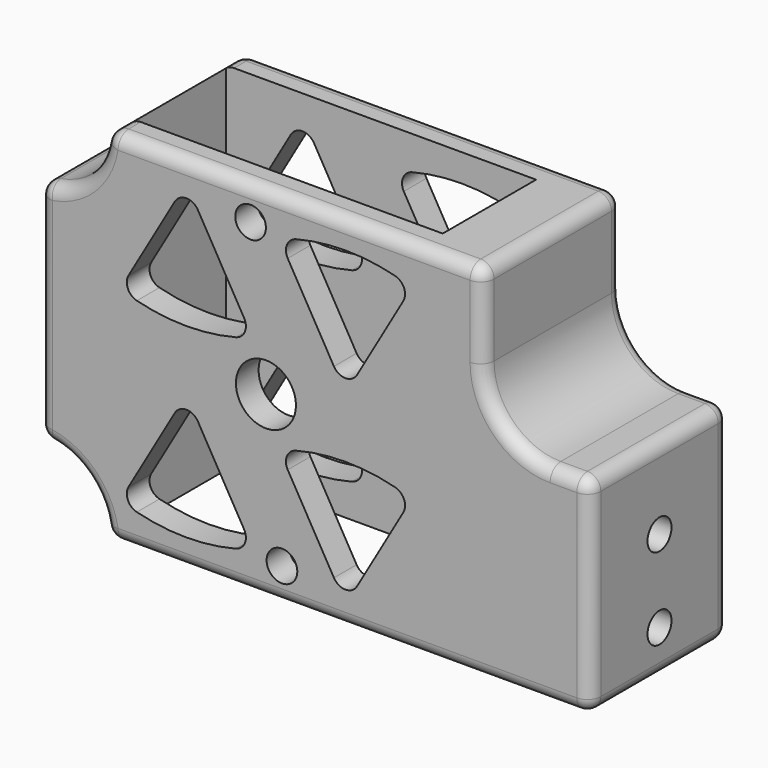
from build123d import *

# Parameters (mm, degrees)
F1_DEPTH  = 26
F2_W      = 46.52
F2_H      = 17.5
F3_DEPTH  = 53.901
F5_D      = 9
F5_DEPTH  = 12
F5_TIP    = 2.7038727856
F7_D      = 4.5
F7_DEPTH  = 30
F7_TIP    = 1.3519363928
F9_D      = 5
F9_DEPTH  = 12.5
F9_TIP    = 1.5021515476
F11_D     = 4.6
F11_DEPTH = 12.5
F11_TIP   = 1.3819794238
F13_DEPTH = 26.001
F14_R     = 2


with BuildPart() as f1:
    # F0 (on Front) → F1 (new body)
    with BuildSketch(Plane.XZ):
        with BuildLine():
            Line((23.3, 53.9), (-29.4678404338, 53.9))
            ThreePointArc((-29.4678404338, 53.9), (-30.7588348825, 53.4275252317), (-31.4398670282, 52.2333333333))
            ThreePointArc((-31.4398670282, 52.2333333333), (-34.2289321881, 46.8289321881), (-39.6333333333, 44.0398670282))
            ThreePointArc((-39.6333333333, 44.0398670282), (-40.8275252317, 43.3588348825), (-41.3, 42.0678404338))
            Line((-41.3, 42.0678404338), (-41.3, 11.8321595662))
            ThreePointArc((-41.3, 11.8321595662), (-40.8275252317, 10.5411651175), (-39.6333333333, 9.8601329718))
            ThreePointArc((-39.6333333333, 9.8601329718), (-34.2289321881, 7.0710678119), (-31.4398670282, 1.6666666667))
            ThreePointArc((-31.4398670282, 1.6666666667), (-30.7588348825, 0.4724747683), (-29.4678404338, 0))
            Line((-29.4678404338, 0), (39.3, 0))
            ThreePointArc((39.3, 0), (40.7142135624, 0.5857864376), (41.3, 2))
            Line((41.3, 2), (41.3, 29.08))
            ThreePointArc((41.3, 29.08), (40.7142135624, 30.4942135624), (39.3, 31.08))
            Line((39.3, 31.08), (35.3, 31.08))
            ThreePointArc((35.3, 31.08), (28.2289321881, 34.0089321881), (25.3, 41.08))
            Line((25.3, 41.08), (25.3, 51.9))
            ThreePointArc((25.3, 51.9), (24.7142135624, 53.3142135624), (23.3, 53.9))
        make_face()
    extrude(amount=-F1_DEPTH)

    # F2 (on face) → F3 (cut, through all)
    with BuildSketch(Plane.XY.offset(53.9)):
        with Locations((-7.46, 13)):
            Rectangle(F2_W, F2_H)
    extrude(amount=-F3_DEPTH, mode=Mode.SUBTRACT)

    # F5
    with Locations(Plane.XZ):
        with Locations((-7.3, 26.9)):
            Hole(F5_D / 2, depth=F5_DEPTH)
            with Locations((0, 0, -(F5_DEPTH + F5_TIP / 2))):  # 118° drill point
                Cone(0, F5_D / 2, F5_TIP, mode=Mode.SUBTRACT)

    # F7
    with Locations(Plane.YZ.offset(41.3)):
        with Locations((13, 18.95), (13, 6.65)):
            Hole(F7_D / 2, depth=F7_DEPTH)
            with Locations((0, 0, -(F7_DEPTH + F7_TIP / 2))):  # 118° drill point
                Cone(0, F7_D / 2, F7_TIP, mode=Mode.SUBTRACT)

    # F9
    with Locations(Plane(origin=(0, 0, 0), x_dir=(1, 0, 0), z_dir=(0, 0, -1))):
        with Locations((36, -13), (21, -13)):
            Hole(F9_D / 2, depth=F9_DEPTH)
            with Locations((0, 0, -(F9_DEPTH + F9_TIP / 2))):  # 118° drill point
                Cone(0, F9_D / 2, F9_TIP, mode=Mode.SUBTRACT)

    # F11
    with Locations(Plane.XZ):
        with Locations((-9.6, 48.8744156136), (-4.9, 5.0255843864)):
            Hole(F11_D / 2, depth=F11_DEPTH)
            with Locations((0, 0, -(F11_DEPTH + F11_TIP / 2))):  # 118° drill point
                Cone(0, F11_D / 2, F11_TIP, mode=Mode.SUBTRACT)

    # F12 (on face) → F13 (cut, through all)
    with BuildSketch(Plane.XZ):
        with BuildLine():
            Line((-10.5679491924, 35.9), (-17.4961524227, 47.9))
            ThreePointArc((-17.4961524227, 47.9), (-19.2282032303, 48.9), (-20.9602540378, 47.9))
            Line((-20.9602540378, 47.9), (-27.8884572681, 35.9))
            ThreePointArc((-27.8884572681, 35.9), (-27.9998723462, 34.1243496093), (-26.6524848314, 32.9625))
            ThreePointArc((-26.6524848314, 32.9625), (-26.4064064606, 32.9156865167), (-26.1564064606, 32.9))
            Line((-26.1564064606, 32.9), (-12.3, 32.9))
            ThreePointArc((-12.3, 32.9), (-12.05, 32.9156865167), (-11.8039216292, 32.9625))
            ThreePointArc((-11.8039216292, 32.9625), (-10.4565341144, 34.1243496093), (-10.5679491924, 35.9))
        make_face()
        with BuildLine():
            ThreePointArc((-26.6524848314, 32.9625), (-19.2282032303, 32.0271284391), (-11.8039216292, 32.9625))
            ThreePointArc((-11.8039216292, 32.9625), (-12.05, 32.9156865167), (-12.3, 32.9))
            Line((-12.3, 32.9), (-26.1564064606, 32.9))
            ThreePointArc((-26.1564064606, 32.9), (-26.4064064606, 32.9156865167), (-26.6524848314, 32.9625))
        make_face()
        with BuildLine():
            ThreePointArc((-2.7960783708, 48.8375), (-2.55, 48.8843134833), (-2.3, 48.9))
            Line((-2.3, 48.9), (11.5564064606, 48.9))
            ThreePointArc((11.5564064606, 48.9), (11.8064064606, 48.8843134833), (12.0524848314, 48.8375))
            ThreePointArc((12.0524848314, 48.8375), (4.6282032303, 49.7728715609), (-2.7960783708, 48.8375))
        make_face()
        with BuildLine():
            Line((11.5564064606, 48.9), (-2.3, 48.9))
            ThreePointArc((-2.3, 48.9), (-2.55, 48.8843134833), (-2.7960783708, 48.8375))
            ThreePointArc((-2.7960783708, 48.8375), (-4.1434658856, 47.6756503907), (-4.0320508076, 45.9))
            Line((-4.0320508076, 45.9), (2.8961524227, 33.9))
            ThreePointArc((2.8961524227, 33.9), (4.6282032303, 32.9), (6.3602540378, 33.9))
            Line((6.3602540378, 33.9), (13.2884572681, 45.9))
            ThreePointArc((13.2884572681, 45.9), (13.3998723462, 47.6756503907), (12.0524848314, 48.8375))
            ThreePointArc((12.0524848314, 48.8375), (11.8064064606, 48.8843134833), (11.5564064606, 48.9))
        make_face()
        with BuildLine():
            Line((-20.9602540378, 20), (-27.8884572681, 8))
            ThreePointArc((-27.8884572681, 8), (-27.9998723462, 6.2243496093), (-26.6524848314, 5.0625))
            ThreePointArc((-26.6524848314, 5.0625), (-26.4064064606, 5.0156865167), (-26.1564064606, 5))
            Line((-26.1564064606, 5), (-12.3, 5))
            ThreePointArc((-12.3, 5), (-12.05, 5.0156865167), (-11.8039216292, 5.0625))
            ThreePointArc((-11.8039216292, 5.0625), (-10.4565341144, 6.2243496093), (-10.5679491924, 8))
            Line((-10.5679491924, 8), (-17.4961524227, 20))
            ThreePointArc((-17.4961524227, 20), (-19.2282032303, 21), (-20.9602540378, 20))
        make_face()
        with BuildLine():
            ThreePointArc((-26.1564064606, 5), (-26.4064064606, 5.0156865167), (-26.6524848314, 5.0625))
            ThreePointArc((-26.6524848314, 5.0625), (-19.2282032303, 4.1271284391), (-11.8039216292, 5.0625))
            ThreePointArc((-11.8039216292, 5.0625), (-12.05, 5.0156865167), (-12.3, 5))
            Line((-12.3, 5), (-26.1564064606, 5))
        make_face()
        with BuildLine():
            ThreePointArc((-2.7960783708, 20.9375), (-4.1434658856, 19.7756503907), (-4.0320508076, 18))
            Line((-4.0320508076, 18), (2.8961524227, 6))
            ThreePointArc((2.8961524227, 6), (4.6282032303, 5), (6.3602540378, 6))
            Line((6.3602540378, 6), (13.2884572681, 18))
            ThreePointArc((13.2884572681, 18), (13.3998723462, 19.7756503907), (12.0524848314, 20.9375))
            ThreePointArc((12.0524848314, 20.9375), (11.8064064606, 20.9843134833), (11.5564064606, 21))
            Line((11.5564064606, 21), (-2.3, 21))
            ThreePointArc((-2.3, 21), (-2.55, 20.9843134833), (-2.7960783708, 20.9375))
        make_face()
        with BuildLine():
            ThreePointArc((12.0524848314, 20.9375), (4.6282032303, 21.8728715609), (-2.7960783708, 20.9375))
            ThreePointArc((-2.7960783708, 20.9375), (-2.55, 20.9843134833), (-2.3, 21))
            Line((-2.3, 21), (11.5564064606, 21))
            ThreePointArc((11.5564064606, 21), (11.8064064606, 20.9843134833), (12.0524848314, 20.9375))
        make_face()
    extrude(amount=-F13_DEPTH, mode=Mode.SUBTRACT)

    # F14
    f14_edges = [f1.edges().sort_by_distance(p)[0] for p in [
        (-41.3, 13, 42.06784),
        (-41.3, 13, 11.83216),
        (-41.3, 0, 26.95),
        (-41.3, 26, 26.95),
    ]]
    fillet(f14_edges, radius=F14_R)


solid = f1.part
